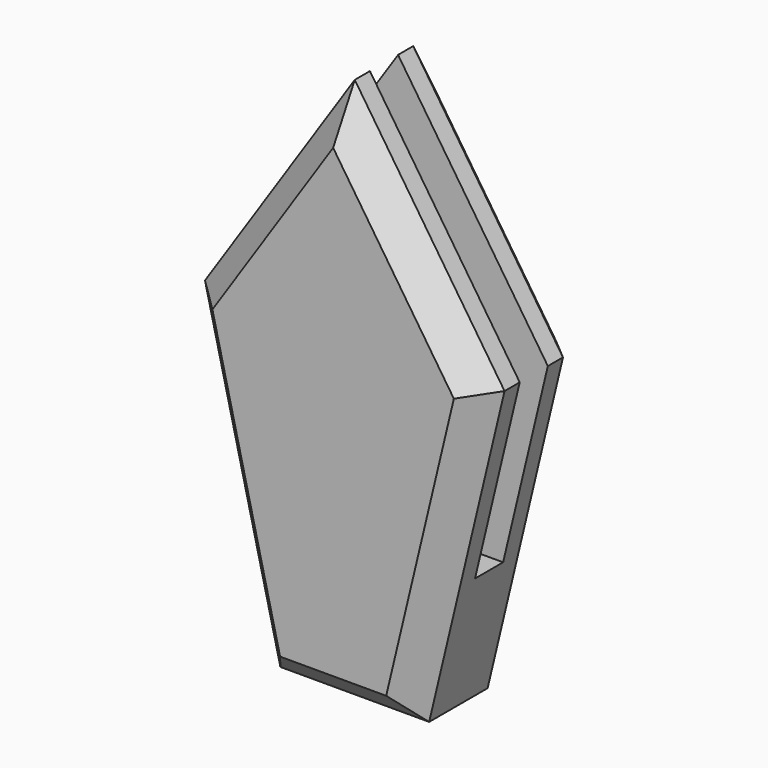
from build123d import *

# Parameters (mm, degrees)
F1_DEPTH = 4.7
F2_W     = 1.3
F2_H     = 20
F3_DEPTH = 10
F4_SIZE  = 1


with BuildPart() as f1:
    # F0 (on Front) → F1 (new body)
    with BuildSketch(Plane.XZ):
        Polygon((-5.535933, 11.672128), (-2.75, 0), (2.75, 0), (5.535933, 11.672128), (0, 20), align=None)
        Polygon((-5.535933, 11.672128), (-2.75, 0), (2.75, 0), (5.535933, 11.672128), (0, 20), align=None)
    extrude(amount=F1_DEPTH)

    # F2 (on Right) → F3 (cut, symmetric)
    with BuildSketch(Plane.YZ):
        with Locations((-2.35, 14.75)):
            Rectangle(F2_W, F2_H)
    extrude(amount=F3_DEPTH, both=True, mode=Mode.SUBTRACT)

    # F4
    f4_edges = [f1.edges().sort_by_distance(p)[0] for p in [
        (-4.142966, -4.7, 5.836064),
        (0, -4.7, 0),
        (4.142966, -4.7, 5.836064),
        (2.767966, -4.7, 15.836064),
        (-2.767966, -4.7, 15.836064),
        (-4.142966, 0, 5.836064),
        (0, 0, 0),
        (4.142966, 0, 5.836064),
        (2.767966, 0, 15.836064),
        (-2.767966, 0, 15.836064),
    ]]
    chamfer(f4_edges, length=F4_SIZE)


solid = f1.part
